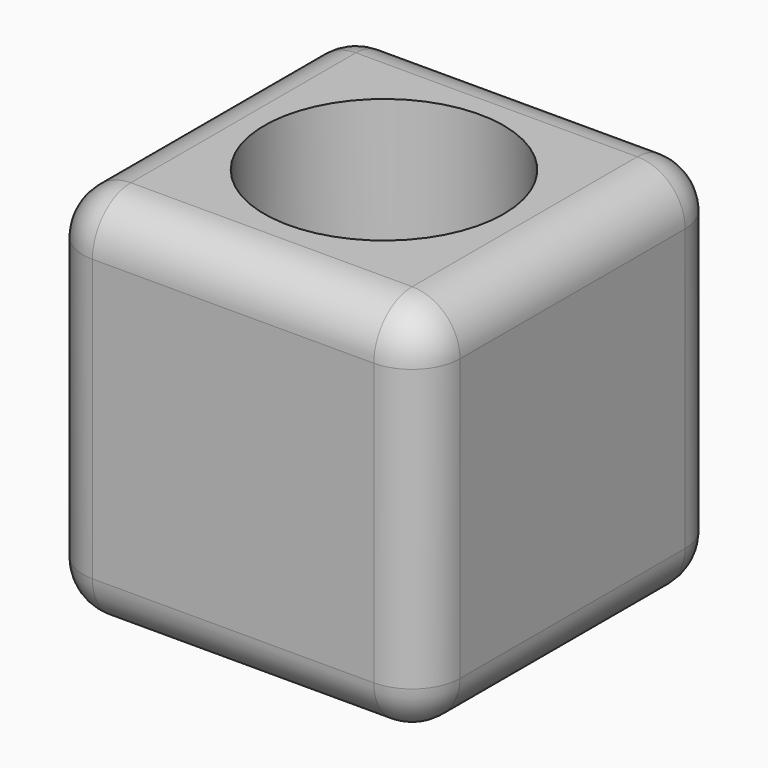
from build123d import *

# Parameters (mm, degrees)
F0_W     = 40
F0_H     = 40
F1_DEPTH = 20
F2_R     = 5.08
F3_D     = 25.4
F3_DEPTH = 20.001


with BuildPart() as f1:
    # F0 (on Top) → F1 (new body, symmetric)
    with BuildSketch(Plane.XY):
        Rectangle(F0_W, F0_H)
    extrude(amount=F1_DEPTH, both=True)

    # F2
    f2_edges = [f1.edges().sort_by_distance(p)[0] for p in [
        (0, -20, 20),
        (20, 0, 20),
        (0, 20, 20),
        (-20, 0, 20),
        (-20, -20, 0),
        (20, -20, 0),
        (20, 0, -20),
        (20, 20, 0),
        (0, -20, -20),
        (-20, 0, -20),
        (0, 20, -20),
        (-20, 20, 0),
    ]]
    fillet(f2_edges, radius=F2_R)

    # F3 (through all, one way)
    with BuildSketch(Plane(origin=(0, 0, 0), x_dir=(1, 0, 0), z_dir=(0, 0, -1))):
        with Locations((0, 0)):
            Circle(F3_D / 2)
    extrude(amount=-F3_DEPTH, mode=Mode.SUBTRACT)


solid = f1.part
